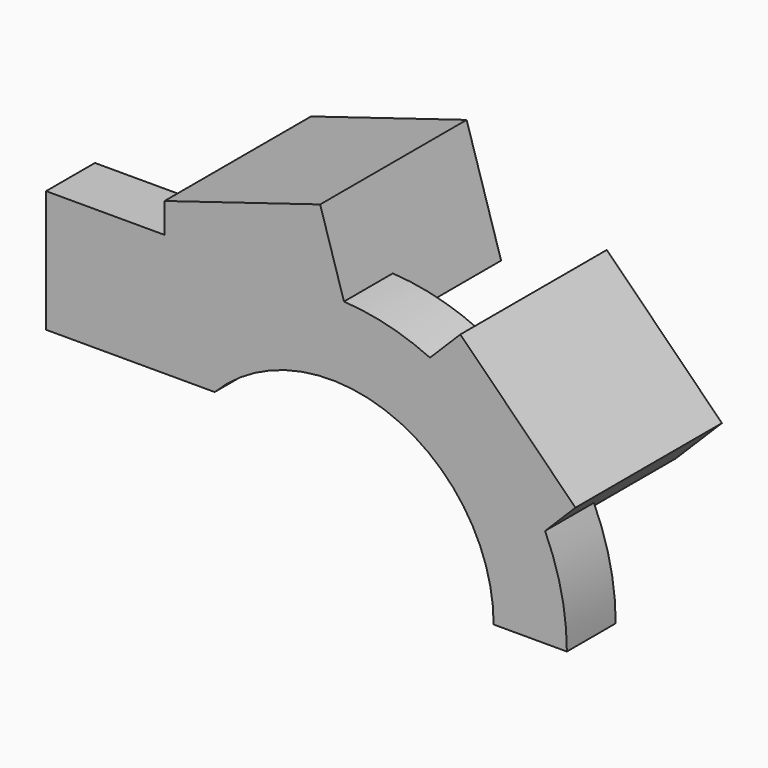
from build123d import *

# Parameters (mm, degrees)
PAD_DEPTH    = 45
PAD001_DEPTH = 15


with BuildPart() as part:
    # Sketch001 → Pad (new body)
    with BuildSketch(Plane.XZ.offset(10)):
        Polygon((-40.888459, 65.334051), (-2.636269, 77.02892), (5.830902, 49.334051), (-40.888459, 49.334051), align=None)
        Polygon((20.506097, 48.790368), (48.790368, 20.506097), (60.104076, 31.819805), (31.819805, 60.104076), align=None)
    extrude(amount=PAD_DEPTH)

    # Sketch → Pad001 (new body)
    with BuildSketch(Plane.XZ.offset(55)):
        with BuildLine():
            ThreePointArc((40, 0), (15.122358, 37.031261), (-28.565714, 28))
            Line((-70, 28), (-28.565714, 28))
            Line((-70, 58), (-70, 28))
            Line((0, 58), (-70, 58))
            ThreePointArc((58, 0), (41.012193, 41.012193), (0, 58))
            Line((40, 0), (58, 0))
        make_face()
    extrude(amount=-PAD001_DEPTH)


solid = part.part
